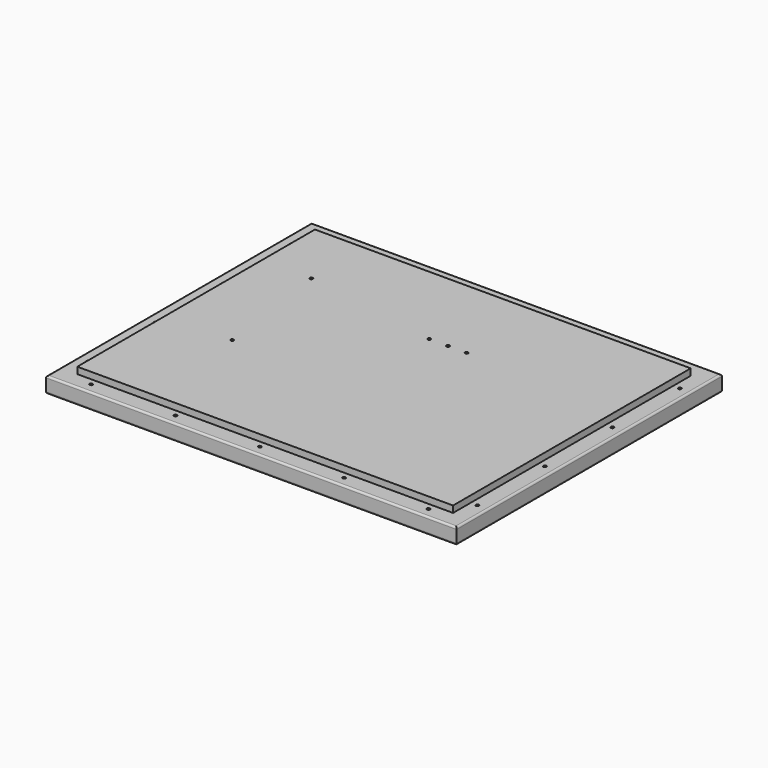
from build123d import *

# Parameters (mm, degrees)
F0_W     = 438
F0_H     = 354
F0_W_2   = 401
F0_H_2   = 317
F1_DEPTH = 17
F2_DEPTH = 24
F3_R     = 2
F4_R     = 2
F6_D     = 3.3
F6_DEPTH = 6.6
F6_TIP   = 0.9914200214
F8_D     = 3.3
F8_DEPTH = 13.5
F8_TIP   = 0.9914200214
F9_D     = 3.3
F9_DEPTH = 13.5
F9_TIP   = 0.9914200214


with BuildPart() as f1:
    # F0 (on Top) → F1 (new body)
    with BuildSketch(Plane.XY):
        with Locations((219, 177)):
            Rectangle(F0_W, F0_H)
        with Locations((219, 177)):
            Rectangle(F0_W_2, F0_H_2, mode=Mode.SUBTRACT)
    extrude(amount=F1_DEPTH)

    # F0 (on Top) → F2 (join)
    with BuildSketch(Plane.XY):
        with Locations((219, 177)):
            Rectangle(F0_W_2, F0_H_2)
    extrude(amount=F2_DEPTH)

    # F3
    f3_edges = [f1.edges().sort_by_distance(p)[0] for p in [
        (0, 177, 0),
        (219, 0, 0),
        (438, 177, 0),
        (219, 354, 0),
    ]]
    fillet(f3_edges, radius=F3_R)

    # F4
    f4_edges = [f1.edges().sort_by_distance(p)[0] for p in [
        (438, 177, 17),
        (219, 0, 17),
        (219, 354, 17),
        (0, 177, 17),
    ]]
    fillet(f4_edges, radius=F4_R)

    # F6
    with Locations(Plane.XY.offset(17)):
        with Locations((11.3, 312), (11.3, 222), (11.3, 132), (11.3, 42), (39, 11.3), (129, 11.3), (219, 11.3), (309, 11.3), (399, 11.3), (426.7, 42), (426.7, 132), (426.7, 222), (426.7, 312), (399, 342.7), (309, 342.7), (219, 342.7), (129, 342.7), (39, 342.7)):
            Hole(F6_D / 2, depth=F6_DEPTH)
            with Locations((0, 0, -(F6_DEPTH + F6_TIP / 2))):  # 118° drill point
                Cone(0, F6_D / 2, F6_TIP, mode=Mode.SUBTRACT)

    # F8
    with Locations(Plane.XY.offset(24)):
        with Locations((216.3, 240.7), (236.3, 240.7), (256.3, 240.7)):
            Hole(F8_D / 2, depth=F8_DEPTH)
            with Locations((0, 0, -(F8_DEPTH + F8_TIP / 2))):  # 118° drill point
                Cone(0, F8_D / 2, F8_TIP, mode=Mode.SUBTRACT)

    # F9
    with Locations(Plane.XY.offset(24)):
        with Locations((71.3, 264.7), (89.3, 136.7)):
            Hole(F9_D / 2, depth=F9_DEPTH)
            with Locations((0, 0, -(F9_DEPTH + F9_TIP / 2))):  # 118° drill point
                Cone(0, F9_D / 2, F9_TIP, mode=Mode.SUBTRACT)


solid = f1.part
